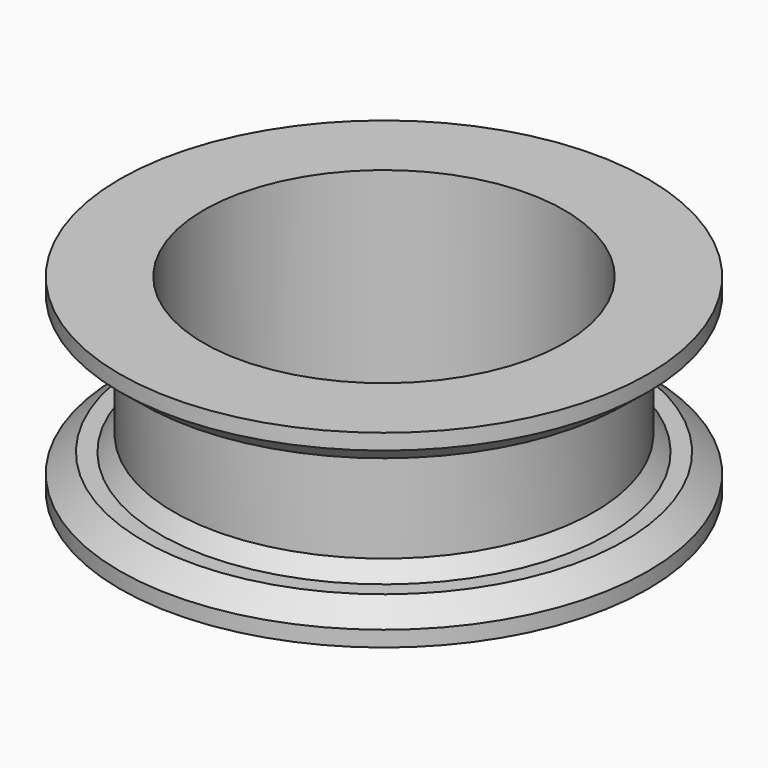
from build123d import *

# Parameters (mm, degrees)
F3_R     = 60.074496
F4_DEPTH = 139


with BuildPart() as f1:
    # F0 (on Front) → F1 (revolve)
    with BuildSketch(Plane.XZ):
        Polygon((0, -31.509954), (0, 0), (-70.13493, 0), (-70.13493, -14.729742), (-74.609652, -19.950252), (-80.203056, -19.950252), (-88.033818, -26.289443), (-88.033818, -31.509954), align=None)
    revolve(axis=Axis((0, 0, -15.754977), (0, 0, -1)))

    # F2: F1 across face


with BuildPart() as f1_1:
    add(f1.part)
    add(f1.part.mirror(Plane.XY))

    # F3 (on face) → F4 (cut)
    with BuildSketch(Plane.XY.offset(31.509954)):
        Circle(F3_R)
    extrude(amount=-F4_DEPTH, mode=Mode.SUBTRACT)


solid = f1_1.part
